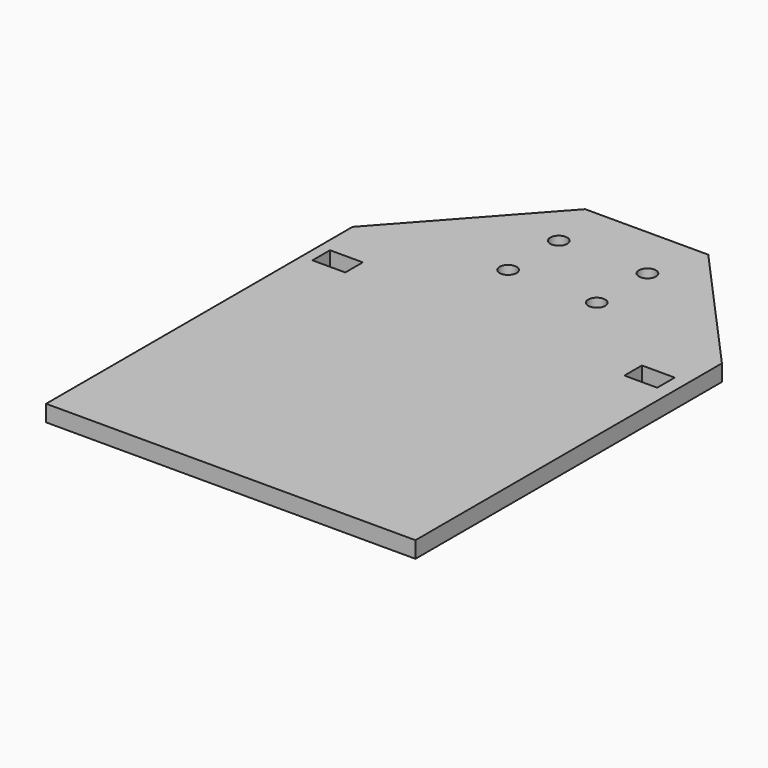
from build123d import *

# Parameters (mm, degrees)
SKETCH_R      = 3.11
SKETCH_W      = 12
SKETCH_H      = 8
EXTRUDE_DEPTH = 6


with BuildPart() as part:
    # Sketch → Extrude (new body)
    with BuildSketch(Plane.XY):
        Polygon((0, 0), (135, 0), (135, 140), (90, 190), (45, 190), (0, 140), align=None)
        with Locations((51.3, 146.95)):
            Circle(SKETCH_R, mode=Mode.SUBTRACT)
        with Locations((83.7, 146.95)):
            Circle(SKETCH_R, mode=Mode.SUBTRACT)
        with Locations((51.3, 170.1)):
            Circle(SKETCH_R, mode=Mode.SUBTRACT)
        with Locations((83.7, 170.1)):
            Circle(SKETCH_R, mode=Mode.SUBTRACT)
        with Locations((124, 120.7)):
            Rectangle(SKETCH_W, SKETCH_H, mode=Mode.SUBTRACT)
        with Locations((10, 120.7)):
            Rectangle(SKETCH_W, SKETCH_H, mode=Mode.SUBTRACT)
    extrude(amount=EXTRUDE_DEPTH)


solid = part.part
